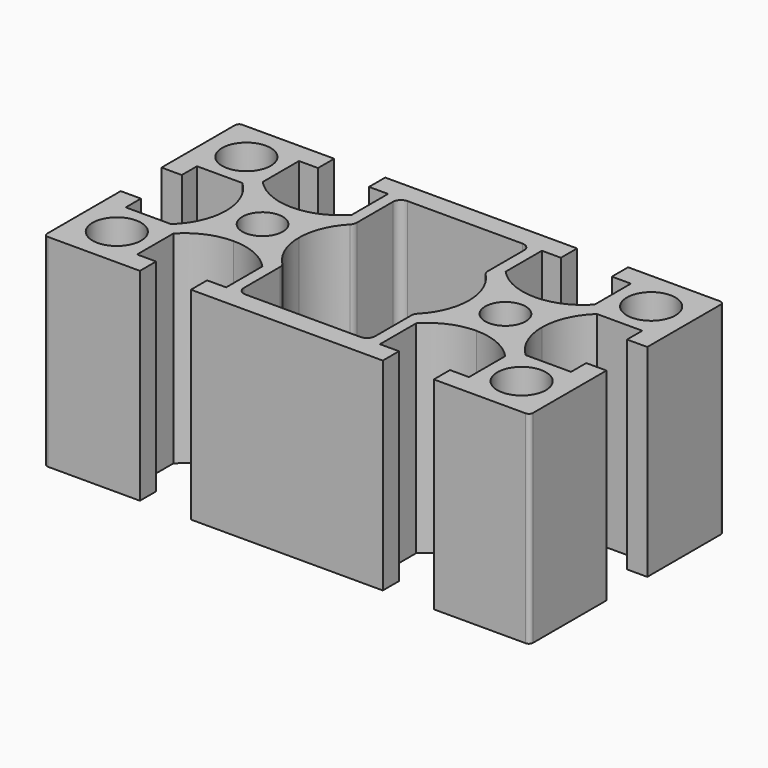
from build123d import *

# Parameters (mm, degrees)
F0_R     = 3
F0_R_2   = 2.5
F1_DEPTH = 25


with BuildPart() as f1:
    # F0 (on Top) → F1 (new body)
    with BuildSketch(Plane.XY):
        with BuildLine():
            ThreePointArc((-14.5, 15), (-14.853553, 14.853553), (-15, 14.5))
            Line((-15, 14.5), (-15, 3.15))
            Line((-15, 3.15), (-12.5, 3.15))
            Line((-12.5, 3.15), (-12.5, 5.5))
            Line((-12.5, 5.5), (-6.90098, 5.5))
            ThreePointArc((-6.90098, 5.5), (-5.126404, 3.000613), (-4.5, 0))
            ThreePointArc((-4.5, 0), (-5.126404, -3.000613), (-6.90098, -5.5))
            Line((-6.90098, -5.5), (-12.5, -5.5))
            Line((-12.5, -5.5), (-12.5, -3.15))
            Line((-12.5, -3.15), (-15, -3.15))
            Line((-15, -3.15), (-15, -14.5))
            ThreePointArc((-15, -14.5), (-14.853553, -14.853553), (-14.5, -15))
            Line((-14.5, -15), (-3.15, -15))
            Line((-3.15, -15), (-3.15, -12.5))
            Line((-3.15, -12.5), (-5.5, -12.5))
            Line((-5.5, -12.5), (-5.5, -6.90098))
            ThreePointArc((-5.5, -6.90098), (-3.000613, -5.126404), (0, -4.5))
            ThreePointArc((0, -4.5), (3.000613, -5.126404), (5.5, -6.90098))
            Line((5.5, -6.90098), (5.5, -12.5))
            Line((5.5, -12.5), (3.15, -12.5))
            Line((3.15, -12.5), (3.15, -15))
            Line((3.15, -15), (26.85, -15))
            Line((26.85, -15), (26.85, -12.5))
            Line((26.85, -12.5), (24.5, -12.5))
            Line((24.5, -12.5), (24.5, -6.90098))
            ThreePointArc((24.5, -6.90098), (26.999387, -5.126404), (30, -4.5))
            ThreePointArc((30, -4.5), (33.000613, -5.126404), (35.5, -6.90098))
            Line((35.5, -6.90098), (35.5, -12.5))
            Line((35.5, -12.5), (33.15, -12.5))
            Line((33.15, -12.5), (33.15, -15))
            Line((33.15, -15), (44.5, -15))
            ThreePointArc((44.5, -15), (44.853553, -14.853553), (45, -14.5))
            Line((45, -14.5), (45, -3.15))
            Line((45, -3.15), (42.5, -3.15))
            Line((42.5, -3.15), (42.5, -5.5))
            Line((42.5, -5.5), (36.90098, -5.5))
            ThreePointArc((36.90098, -5.5), (35.126404, -3.000613), (34.5, 0))
            ThreePointArc((34.5, 0), (35.126404, 3.000613), (36.90098, 5.5))
            Line((36.90098, 5.5), (42.5, 5.5))
            Line((42.5, 5.5), (42.5, 3.15))
            Line((42.5, 3.15), (45, 3.15))
            Line((45, 3.15), (45, 14.5))
            ThreePointArc((45, 14.5), (44.853553, 14.853553), (44.5, 15))
            Line((44.5, 15), (33.15, 15))
            Line((33.15, 15), (33.15, 12.5))
            Line((33.15, 12.5), (35.5, 12.5))
            Line((35.5, 12.5), (35.5, 6.90098))
            ThreePointArc((35.5, 6.90098), (33.000613, 5.126404), (30, 4.5))
            ThreePointArc((30, 4.5), (26.999387, 5.126404), (24.5, 6.90098))
            Line((24.5, 6.90098), (24.5, 12.5))
            Line((24.5, 12.5), (26.85, 12.5))
            Line((26.85, 12.5), (26.85, 15))
            Line((26.85, 15), (3.15, 15))
            Line((3.15, 15), (3.15, 12.5))
            Line((3.15, 12.5), (5.5, 12.5))
            Line((5.5, 12.5), (5.5, 6.90098))
            ThreePointArc((5.5, 6.90098), (3.000613, 5.126404), (0, 4.5))
            ThreePointArc((0, 4.5), (-3.000613, 5.126404), (-5.5, 6.90098))
            Line((-5.5, 6.90098), (-5.5, 12.5))
            Line((-5.5, 12.5), (-3.15, 12.5))
            Line((-3.15, 12.5), (-3.15, 15))
            Line((-3.15, 15), (-14.5, 15))
        make_face()
        with Locations((-10, -10)):
            Circle(F0_R, mode=Mode.SUBTRACT)
        with Locations((40, -10)):
            Circle(F0_R, mode=Mode.SUBTRACT)
        Circle(F0_R_2, mode=Mode.SUBTRACT)
        with Locations((-10, 10)):
            Circle(F0_R, mode=Mode.SUBTRACT)
        with BuildLine():
            ThreePointArc((6.618512, -5.223944), (5.049778, -2.818585), (4.5, 0))
            ThreePointArc((4.5, 0), (5.049778, 2.818585), (6.618512, 5.223944))
            ThreePointArc((6.618512, 5.223944), (6.827677, 5.544658), (6.90098, 5.92047))
            Line((6.90098, 5.92047), (6.90098, 11.5))
            ThreePointArc((6.90098, 11.5), (7.193874, 12.207107), (7.90098, 12.5))
            Line((7.90098, 12.5), (15, 12.5))
            Line((15, 12.5), (22.09902, 12.5))
            ThreePointArc((22.09902, 12.5), (22.806126, 12.207107), (23.09902, 11.5))
            Line((23.09902, 11.5), (23.09902, 5.92047))
            ThreePointArc((23.09902, 5.92047), (23.172323, 5.544658), (23.381488, 5.223944))
            ThreePointArc((23.381488, 5.223944), (24.950222, 2.818585), (25.5, 0))
            ThreePointArc((25.5, 0), (24.950222, -2.818585), (23.381488, -5.223944))
            ThreePointArc((23.381488, -5.223944), (23.172323, -5.544658), (23.09902, -5.92047))
            Line((23.09902, -5.92047), (23.09902, -11.5))
            ThreePointArc((23.09902, -11.5), (22.806126, -12.207107), (22.09902, -12.5))
            Line((22.09902, -12.5), (15, -12.5))
            Line((15, -12.5), (7.90098, -12.5))
            ThreePointArc((7.90098, -12.5), (7.193874, -12.207107), (6.90098, -11.5))
            Line((6.90098, -11.5), (6.90098, -5.92047))
            ThreePointArc((6.90098, -5.92047), (6.827677, -5.544658), (6.618512, -5.223944))
        make_face(mode=Mode.SUBTRACT)
        with Locations((30, 0)):
            Circle(F0_R_2, mode=Mode.SUBTRACT)
        with Locations((40, 10)):
            Circle(F0_R, mode=Mode.SUBTRACT)
    extrude(amount=F1_DEPTH)


solid = f1.part
